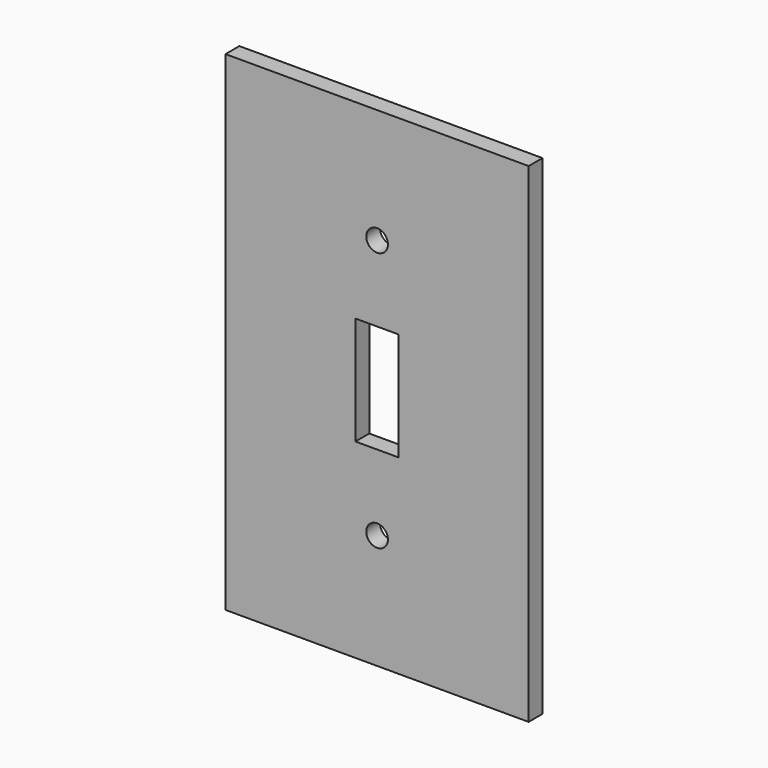
from build123d import *

# Parameters (mm, degrees)
F0_W     = 70
F0_H     = 113
F1_DEPTH = 4
F2_W     = 10
F2_H     = 25
F2_R     = 2.5
F3_DEPTH = 4.001


with BuildPart() as f1:
    # F0 (on Front) → F1 (new body)
    with BuildSketch(Plane.XZ):
        with Locations((-17.113956, -0.860322)):
            Rectangle(F0_W, F0_H)
    extrude(amount=F1_DEPTH)

    # F2 (on face) → F3 (cut, through all)
    with BuildSketch(Plane.XZ.offset(4)):
        with Locations((-17.113956, -0.860322)):
            Rectangle(F2_W, F2_H)
        with Locations((-17.113956, 29.139678)):
            Circle(F2_R)
        with Locations((-17.113956, -30.860322)):
            Circle(F2_R)
    extrude(amount=-F3_DEPTH, mode=Mode.SUBTRACT)


solid = f1.part
